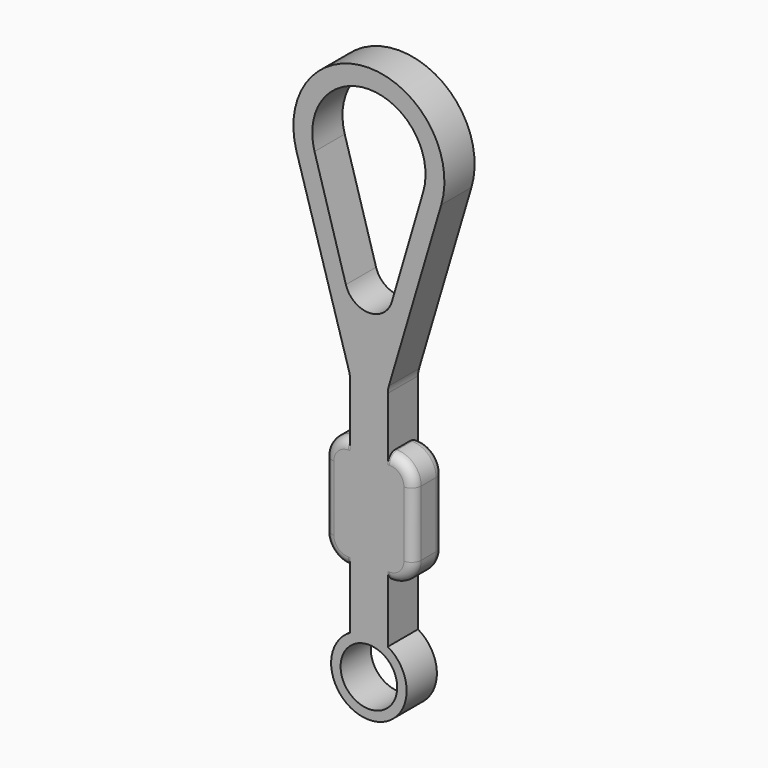
from build123d import *

# Parameters (mm, degrees)
F0_R     = 1.5
F1_DEPTH = 2
F2_R     = 1.27
F3_R     = 0.508


with BuildPart() as f1:
    # F0 (on Front) → F1 (new body)
    with BuildSketch(Plane.XZ):
        with BuildLine():
            Line((-1, 4.7320508076), (-1, 1.7320508076))
            ThreePointArc((-1, 1.7320508076), (0, -2), (1, 1.7320508076))
            Line((1, 1.7320508076), (1, 4.7320508076))
            Line((1, 4.7320508076), (2.363858046, 4.7320508076))
            Line((2.363858046, 4.7320508076), (2.363858046, 10.7320508076))
            Line((2.363858046, 10.7320508076), (1.0033, 10.7320508076))
            Line((1.0033, 10.7320508076), (1.0033, 13.7320508076))
            Line((1.0033, 13.7320508076), (3.8344133108, 23.2630893134))
            ThreePointArc((3.8344133108, 23.2630893134), (-0.0012725797, 28.4020687255), (-3.8336878134, 23.2606497457))
            Line((-3.8336878134, 23.2606497457), (-0.9967, 13.7320508076))
            Line((-0.9967, 13.7320508076), (-0.9967, 10.7320508076))
            Line((-0.9967, 10.7320508076), (-2.363858046, 10.7320508076))
            Line((-2.363858046, 10.7320508076), (-2.363858046, 4.7320508076))
            Line((-2.363858046, 4.7320508076), (-1, 4.7320508076))
        make_face()
        Circle(F0_R, mode=Mode.SUBTRACT)
        with BuildLine():
            ThreePointArc((-2.8789812594, 23.5585839498), (0, 27.4020689279), (2.8789812594, 23.5585839498))
            Line((2.8789812594, 23.5585839498), (0, 13.7320508076))
            Line((0, 13.7320508076), (-2.8789812594, 23.5585839498))
        make_face(mode=Mode.SUBTRACT)
    extrude(amount=F1_DEPTH)

    # F2
    f2_edges = [f1.edges().sort_by_distance(p)[0] for p in [
        (2.363858, -1, 10.732051),
        (2.363858, -1, 4.732051),
        (-2.363858, -1, 10.732051),
        (-2.363858, -1, 4.732051),
        (0, -1, 13.732051),
        (1.0033, -1, 13.732051),
        (-0.9967, -1, 13.732051),
    ]]
    fillet(f2_edges, radius=F2_R)

    # F3
    f3_edges = [f1.edges().sort_by_distance(p)[0] for p in [
        (-1.991884, -2, 10.360076),
        (1.991884, -2, 10.360076),
        (2.363858, 0, 7.732051),
        (-2.363858, 0, 7.732051),
    ]]
    fillet(f3_edges, radius=F3_R)


solid = f1.part
